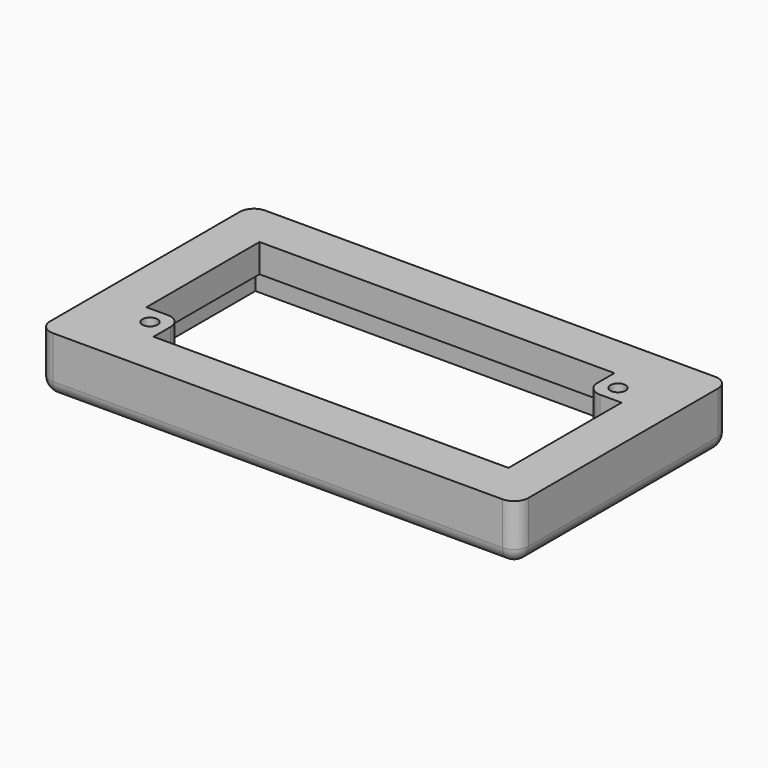
from build123d import *

# Parameters (mm, degrees)
F0_W     = 85.5472
F0_H     = 47.498
F0_W_2   = 69.85
F0_H_2   = 31.623
F1_DEPTH = 10.16
F2_W     = 6.35
F2_H     = 6.35
F2_R     = 1.35255
F3_DEPTH = 5.08
F4_R     = 2.54
F5_W     = 76.581
F5_H     = 38.227
F5_W_2   = 69.85
F5_H_2   = 31.623
F6_DEPTH = 5.08
F7_R     = 2.54


with BuildPart() as f1:
    # F0 (on Top) → F1 (new body)
    with BuildSketch(Plane.XY):
        Rectangle(F0_W, F0_H)
        Rectangle(F0_W_2, F0_H_2, mode=Mode.SUBTRACT)
    extrude(amount=F1_DEPTH)

    # F2 (on face) → F3 (join)
    with BuildSketch(Plane.XY.offset(10.16)):
        with Locations((-31.75, -12.6365)):
            Rectangle(F2_W, F2_H)
        with Locations((-31.75, -12.6365)):
            Circle(F2_R, mode=Mode.SUBTRACT)
        with Locations((31.75, 12.6365)):
            Rectangle(F2_W, F2_H)
        with Locations((31.75, 12.6365)):
            Circle(F2_R, mode=Mode.SUBTRACT)
    extrude(amount=-F3_DEPTH)

    # F4
    f4_edges = [f1.edges().sort_by_distance(p)[0] for p in [
        (28.575, 9.4615, 7.62),
        (-28.575, -9.4615, 7.62),
    ]]
    fillet(f4_edges, radius=F4_R)

    # F5 (on face) → F6 (cut)
    with BuildSketch(Plane(origin=(0, 0, 0), x_dir=(1, 0, 0), z_dir=(0, 0, -1))):
        Rectangle(F5_W, F5_H)
        Rectangle(F5_W_2, F5_H_2, mode=Mode.SUBTRACT)
    extrude(amount=-F6_DEPTH, mode=Mode.SUBTRACT)

    # F7
    f7_edges = [f1.edges().sort_by_distance(p)[0] for p in [
        (42.7736, -23.749, 5.08),
        (42.7736, 23.749, 5.08),
        (-42.7736, -23.749, 5.08),
        (-42.7736, 23.749, 5.08),
        (0, -23.749, 0),
        (42.7736, 0, 0),
        (0, 23.749, 0),
        (-42.7736, 0, 0),
    ]]
    fillet(f7_edges, radius=F7_R)


solid = f1.part
